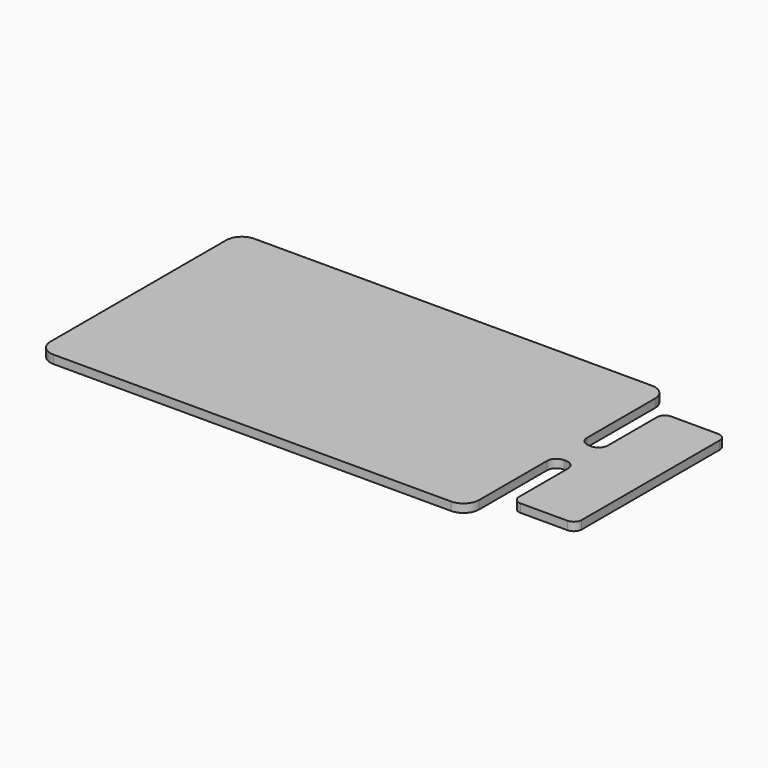
from build123d import *

# Parameters (mm, degrees)
PAD_DEPTH   = 0.8
FILLET_R    = 0.9
FILLET001_R = 0.75
FILLET002_R = 1.5


with BuildPart() as part:
    # Sketch → Pad (new body)
    with BuildSketch(Plane.XY):
        Polygon((-20.5, 12), (20.5, 12), (20.5, 1.5), (22.5, 1.5), (22.5, 9), (28.5, 9), (28.5, -9), (22.5, -9), (22.5, -1.5), (20.5, -1.5), (20.5, -12), (-20.5, -12), align=None)
    extrude(amount=PAD_DEPTH)

    # Fillet
    fillet_edges = [part.edges().sort_by_distance(p)[0] for p in [
        (22.5, -1.5, 0.4),
        (22.5, 1.5, 0.4),
        (20.5, 1.5, 0.4),
        (20.5, -1.5, 0.4),
    ]]
    fillet(fillet_edges, radius=FILLET_R)

    # Fillet001
    fillet001_edges = [part.edges().sort_by_distance(p)[0] for p in [
        (22.5, -9, 0.4),
        (28.5, -9, 0.4),
        (28.5, 9, 0.4),
        (22.5, 9, 0.4),
    ]]
    fillet(fillet001_edges, radius=FILLET001_R)

    # Fillet002
    fillet002_edges = [part.edges().sort_by_distance(p)[0] for p in [
        (20.5, -12, 0.4),
        (-20.5, -12, 0.4),
        (-20.5, 12, 0.4),
        (20.5, 12, 0.4),
    ]]
    fillet(fillet002_edges, radius=FILLET002_R)


solid = part.part
